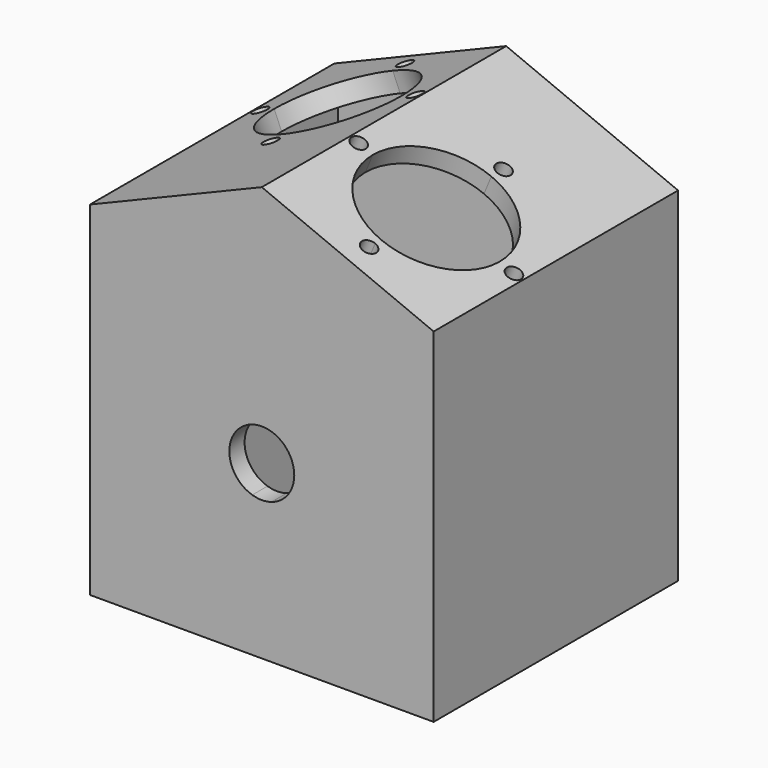
from build123d import *

# Parameters (mm, degrees)
F0_W     = 2.5
F0_H     = 40
F0_H_2   = 2.5
F1_DEPTH = 40
F2_T     = -2.5
F3_DEPTH = 40
F5_R     = 1
F6_DEPTH = 3.5
F4_R     = 1
F7_DEPTH = 3.5


with BuildPart() as f1:
    # F0 (on Front) → F1 (new body)
    with BuildSketch(Plane.XZ):
        Polygon((20, 20), (20, 22.5), (-22.5, 22.5), (-22.5, -22.5), (20, -22.5), (20, -20), (17.5, -20), (17.5, 20), align=None)
        with Locations((-18.75, 0)):
            Rectangle(F0_W, F0_H, mode=Mode.SUBTRACT)
        with Locations((-12.5, 0)):
            Rectangle(F0_W, F0_H, mode=Mode.SUBTRACT)
        with BuildLine():
            Line((1.25, 20), (1.25, 6.6332495807))
            ThreePointArc((1.25, 6.6332495807), (3.2964706517, 5.8903124911), (5, 4.5345892868))
            Line((5, 4.5345892868), (5, 20))
            Line((5, 20), (7.5, 20))
            Line((7.5, 20), (7.5, -20))
            Line((7.5, -20), (5, -20))
            Line((5, -20), (5, -4.5345892868))
            ThreePointArc((5, -4.5345892868), (3.2964706517, -5.8903124911), (1.25, -6.6332495807))
            Line((1.25, -6.6332495807), (1.25, -20))
            Line((1.25, -20), (-1.25, -20))
            Line((-1.25, -20), (-1.25, -6.6332495807))
            ThreePointArc((-1.25, -6.6332495807), (-3.2964706517, -5.8903124911), (-5, -4.5345892868))
            Line((-5, -4.5345892868), (-5, -20))
            Line((-5, -20), (-7.5, -20))
            Line((-7.5, -20), (-7.5, 20))
            Line((-7.5, 20), (-5, 20))
            Line((-5, 20), (-5, 4.5345892868))
            ThreePointArc((-5, 4.5345892868), (-3.2964706517, 5.8903124911), (-1.25, 6.6332495807))
            Line((-1.25, 6.6332495807), (-1.25, 20))
            Line((-1.25, 20), (1.25, 20))
        make_face(mode=Mode.SUBTRACT)
        with Locations((12.5, 0)):
            Rectangle(F0_W, F0_H, mode=Mode.SUBTRACT)
        Polygon((20, 22.5), (22.5, 22.5), (0, 31.8198051534), (-22.5, 22.5), align=None)
        with Locations((-12.5, 0)):
            Rectangle(F0_W, F0_H)
        with Locations((18.75, 0)):
            Rectangle(F0_W, F0_H)
        with Locations((-18.75, 0)):
            Rectangle(F0_W, F0_H)
        with Locations((21.25, 0)):
            Rectangle(F0_W, F0_H)
        with Locations((12.5, 0)):
            Rectangle(F0_W, F0_H)
        with BuildLine():
            Line((5, 20), (5, 4.5345892868))
            ThreePointArc((5, 4.5345892868), (6.2973208589, 2.4302777619), (6.75, 0))
            ThreePointArc((6.75, 0), (6.2973208589, -2.4302777619), (5, -4.5345892868))
            Line((5, -4.5345892868), (5, -20))
            Line((5, -20), (7.5, -20))
            Line((7.5, -20), (7.5, 20))
            Line((7.5, 20), (5, 20))
        make_face()
        with BuildLine():
            ThreePointArc((-5, -4.5345892868), (-6.75, 0), (-5, 4.5345892868))
            Line((-5, 4.5345892868), (-5, 20))
            Line((-5, 20), (-7.5, 20))
            Line((-7.5, 20), (-7.5, -20))
            Line((-7.5, -20), (-5, -20))
            Line((-5, -20), (-5, -4.5345892868))
        make_face()
        with BuildLine():
            ThreePointArc((-1.25, 6.6332495807), (0, 6.75), (1.25, 6.6332495807))
            Line((1.25, 6.6332495807), (1.25, 20))
            Line((1.25, 20), (-1.25, 20))
            Line((-1.25, 20), (-1.25, 6.6332495807))
        make_face()
        with BuildLine():
            Line((1.25, -20), (1.25, -6.6332495807))
            ThreePointArc((1.25, -6.6332495807), (0, -6.75), (-1.25, -6.6332495807))
            Line((-1.25, -6.6332495807), (-1.25, -20))
            Line((-1.25, -20), (1.25, -20))
        make_face()
        with BuildLine():
            ThreePointArc((-1.25, -4.0620192023), (-4.25, 0), (-1.25, 4.0620192023))
            Line((-1.25, 4.0620192023), (-1.25, 6.6332495807))
            ThreePointArc((-1.25, 6.6332495807), (-3.2964706517, 5.8903124911), (-5, 4.5345892868))
            Line((-5, 4.5345892868), (-5, -4.5345892868))
            ThreePointArc((-5, -4.5345892868), (-3.2964706517, -5.8903124911), (-1.25, -6.6332495807))
            Line((-1.25, -6.6332495807), (-1.25, -4.0620192023))
        make_face()
        with BuildLine():
            ThreePointArc((1.25, 4.0620192023), (3.4186985828, 2.5248762346), (4.25, 0))
            ThreePointArc((4.25, 0), (3.4186985828, -2.5248762346), (1.25, -4.0620192023))
            Line((1.25, -4.0620192023), (1.25, -6.6332495807))
            ThreePointArc((1.25, -6.6332495807), (3.2964706517, -5.8903124911), (5, -4.5345892868))
            Line((5, -4.5345892868), (5, 4.5345892868))
            ThreePointArc((5, 4.5345892868), (3.2964706517, 5.8903124911), (1.25, 6.6332495807))
            Line((1.25, 6.6332495807), (1.25, 4.0620192023))
        make_face()
        with BuildLine():
            Line((1.25, -4.0620192023), (1.25, 4.0620192023))
            ThreePointArc((1.25, 4.0620192023), (0, 4.25), (-1.25, 4.0620192023))
            Line((-1.25, 4.0620192023), (-1.25, -4.0620192023))
            ThreePointArc((-1.25, -4.0620192023), (0, -4.25), (1.25, -4.0620192023))
        make_face()
        with BuildLine():
            Line((-1.25, -4.0620192023), (-1.25, 4.0620192023))
            ThreePointArc((-1.25, 4.0620192023), (-4.25, 0), (-1.25, -4.0620192023))
        make_face()
        with BuildLine():
            ThreePointArc((1.25, -4.0620192023), (3.4186985828, -2.5248762346), (4.25, 0))
            ThreePointArc((4.25, 0), (3.4186985828, 2.5248762346), (1.25, 4.0620192023))
            Line((1.25, 4.0620192023), (1.25, -4.0620192023))
        make_face()
        with BuildLine():
            ThreePointArc((6.75, 0), (6.2973208589, 2.4302777619), (5, 4.5345892868))
            Line((5, 4.5345892868), (5, -4.5345892868))
            ThreePointArc((5, -4.5345892868), (6.2973208589, -2.4302777619), (6.75, 0))
        make_face()
        with BuildLine():
            Line((-5, -4.5345892868), (-5, 4.5345892868))
            ThreePointArc((-5, 4.5345892868), (-6.75, 0), (-5, -4.5345892868))
        make_face()
        with BuildLine():
            Line((1.25, -6.6332495807), (1.25, -4.0620192023))
            ThreePointArc((1.25, -4.0620192023), (0, -4.25), (-1.25, -4.0620192023))
            Line((-1.25, -4.0620192023), (-1.25, -6.6332495807))
            ThreePointArc((-1.25, -6.6332495807), (0, -6.75), (1.25, -6.6332495807))
        make_face()
        with BuildLine():
            ThreePointArc((-1.25, 4.0620192023), (0, 4.25), (1.25, 4.0620192023))
            Line((1.25, 4.0620192023), (1.25, 6.6332495807))
            ThreePointArc((1.25, 6.6332495807), (0, 6.75), (-1.25, 6.6332495807))
            Line((-1.25, 6.6332495807), (-1.25, 4.0620192023))
        make_face()
        with Locations((21.25, -21.25)):
            Rectangle(F0_W, F0_H_2)
        with Locations((21.25, 21.25)):
            Rectangle(F0_W, F0_H_2)
    extrude(amount=F1_DEPTH)

    # F2
    f2_openings = [f1.faces().sort_by_distance(p)[0] for p in [
        (0, -20, -22.5),
    ]]
    offset(amount=F2_T, openings=f2_openings)

    # F0 (on Front) → F3 (cut)
    with BuildSketch(Plane.XZ):
        with BuildLine():
            ThreePointArc((1.25, -4.0620192023), (3.4186985828, -2.5248762346), (4.25, 0))
            ThreePointArc((4.25, 0), (3.4186985828, 2.5248762346), (1.25, 4.0620192023))
            Line((1.25, 4.0620192023), (1.25, -4.0620192023))
        make_face()
        with BuildLine():
            Line((1.25, -4.0620192023), (1.25, 4.0620192023))
            ThreePointArc((1.25, 4.0620192023), (0, 4.25), (-1.25, 4.0620192023))
            Line((-1.25, 4.0620192023), (-1.25, -4.0620192023))
            ThreePointArc((-1.25, -4.0620192023), (0, -4.25), (1.25, -4.0620192023))
        make_face()
        with BuildLine():
            Line((-1.25, -4.0620192023), (-1.25, 4.0620192023))
            ThreePointArc((-1.25, 4.0620192023), (-4.25, 0), (-1.25, -4.0620192023))
        make_face()
    extrude(amount=F3_DEPTH, mode=Mode.SUBTRACT)

    # F5 (on face) → F6 (cut)
    with BuildSketch(Plane(origin=(11.25, 0, 27.1599025767), x_dir=(0.9238795325, 0, -0.3826834324), z_dir=(0.3826834324, 0, 0.9238795325))):
        with BuildLine():
            Line((0, -16.5), (0, -25.5))
            Line((0, -25.5), (9, -25.5))
            ThreePointArc((9, -25.5), (6.3639610307, -19.1360389693), (0, -16.5))
        make_face()
        with BuildLine():
            Line((-9, -25.5), (0, -25.5))
            Line((0, -25.5), (0, -16.5))
            ThreePointArc((0, -16.5), (-6.3639610307, -19.1360389693), (-9, -25.5))
        make_face()
        with BuildLine():
            ThreePointArc((-9, -25.5), (-6.3639610307, -31.8639610307), (0, -34.5))
            Line((0, -34.5), (0, -25.5))
            Line((0, -25.5), (-9, -25.5))
        make_face()
        with BuildLine():
            Line((0, -25.5), (0, -34.5))
            ThreePointArc((0, -34.5), (6.3639610307, -31.8639610307), (9, -25.5))
            Line((9, -25.5), (0, -25.5))
        make_face()
        with Locations((-11, -25.5)):
            Circle(F5_R)
        with BuildLine():
            ThreePointArc((1, -14.5), (-0.7071067812, -13.7928932188), (0, -15.5))
            ThreePointArc((0, -15.5), (0.7071067812, -15.2071067812), (1, -14.5))
        make_face()
        with BuildLine():
            ThreePointArc((12, -25.5), (11, -24.5), (10, -25.5))
            ThreePointArc((10, -25.5), (11, -26.5), (12, -25.5))
        make_face()
        with BuildLine():
            Line((0, -36.5), (0, -37.5))
            ThreePointArc((0, -37.5), (0.7071067812, -37.2071067812), (1, -36.5))
            ThreePointArc((1, -36.5), (0.7071067812, -35.7928932188), (0, -35.5))
            Line((0, -35.5), (0, -36.5))
        make_face()
        with BuildLine():
            ThreePointArc((0, -35.5), (-1, -36.5), (0, -37.5))
            Line((0, -37.5), (0, -36.5))
            Line((0, -36.5), (0, -35.5))
        make_face()
    extrude(amount=-F6_DEPTH, mode=Mode.SUBTRACT)

    # F4 (on face) → F7 (cut)
    with BuildSketch(Plane(origin=(-11.25, 0, 27.1599025767), x_dir=(0.9238795325, 0, 0.3826834324), z_dir=(-0.3826834324, 0, 0.9238795325))):
        with BuildLine():
            ThreePointArc((9, -13.5), (6.3639610307, -7.1360389693), (0, -4.5))
            Line((0, -4.5), (0, -13.5))
            Line((0, -13.5), (9, -13.5))
        make_face()
        with BuildLine():
            Line((0, -13.5), (0, -4.5))
            ThreePointArc((0, -4.5), (-6.3639610307, -7.1360389693), (-9, -13.5))
            Line((-9, -13.5), (0, -13.5))
        make_face()
        with BuildLine():
            Line((0, -22.5), (0, -13.5))
            Line((0, -13.5), (-9, -13.5))
            ThreePointArc((-9, -13.5), (-6.3639610307, -19.8639610307), (0, -22.5))
        make_face()
        with BuildLine():
            Line((9, -13.5), (0, -13.5))
            Line((0, -13.5), (0, -22.5))
            ThreePointArc((0, -22.5), (6.3639610307, -19.8639610307), (9, -13.5))
        make_face()
        with BuildLine():
            ThreePointArc((1, -2.5), (0.7071067812, -1.7928932188), (0, -1.5))
            Line((0, -1.5), (0, -2.5))
            Line((0, -2.5), (0, -3.5))
            ThreePointArc((0, -3.5), (0.7071067812, -3.2071067812), (1, -2.5))
        make_face()
        with BuildLine():
            Line((0, -2.5), (0, -1.5))
            ThreePointArc((0, -1.5), (-1, -2.5), (0, -3.5))
            Line((0, -3.5), (0, -2.5))
        make_face()
        with Locations((-11, -13.5)):
            Circle(F4_R)
        with BuildLine():
            ThreePointArc((1, -24.5), (0.7071067812, -23.7928932188), (0, -23.5))
            ThreePointArc((0, -23.5), (-0.7071067812, -25.2071067812), (1, -24.5))
        make_face()
        with BuildLine():
            ThreePointArc((12, -13.5), (11, -12.5), (10, -13.5))
            ThreePointArc((10, -13.5), (11, -14.5), (12, -13.5))
        make_face()
    extrude(amount=-F7_DEPTH, mode=Mode.SUBTRACT)


solid = f1.part
